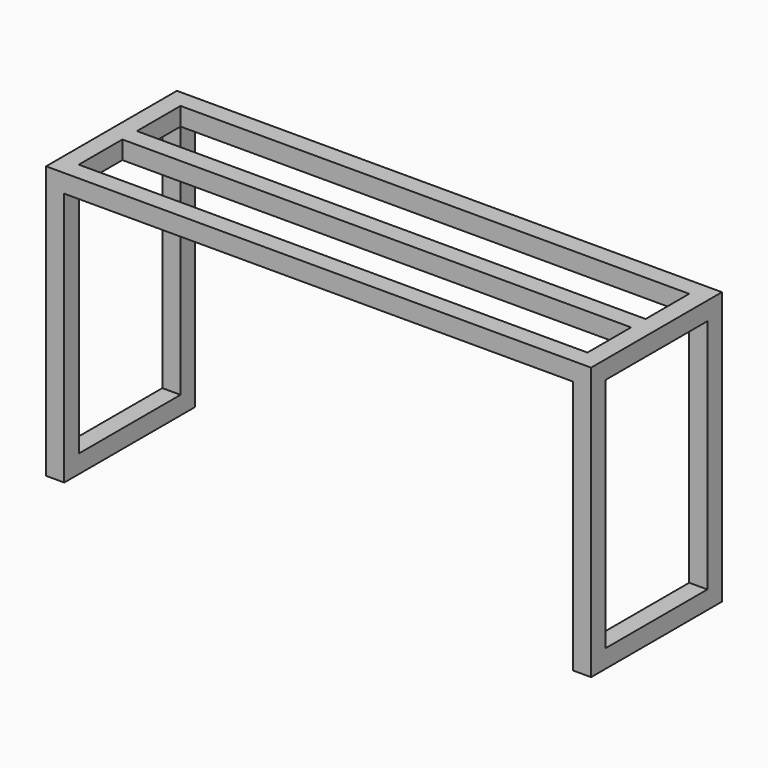
from build123d import *

# Parameters (mm, degrees)
PAD019_DEPTH = 40
SKETCH075_W  = 320
SKETCH075_H  = 40
PAD020_DEPTH = 40
SKETCH076_W  = 320
SKETCH076_H  = 40
PAD021_DEPTH = 40
PAD022_DEPTH = 40
SKETCH078_W  = 1120
SKETCH078_H  = 40
PAD023_DEPTH = 40


with BuildPart() as part:
    # Sketch074 (on Face1 of Binder024) → Pad019 (new body)
    with BuildSketch(Plane.XZ.offset(2.1)):
        Polygon((-300, -343.2), (900, -343.2), (900, -943.2), (860, -943.2), (860, -383.2), (-260, -383.2), (-260, -943.2), (-300, -943.2), align=None)
    extrude(amount=-PAD019_DEPTH)

    # Sketch075 (on Face2 of Pad019) → Pad020 (join)
    with BuildSketch(Plane.YZ.offset(900)):
        with Locations((197.9, -363.2)):
            Rectangle(SKETCH075_W, SKETCH075_H)
        with Locations((197.9, -923.2)):
            Rectangle(SKETCH075_W, SKETCH075_H)
    extrude(amount=-PAD020_DEPTH)

    # Sketch076 (on Face1 of Pad020) → Pad021 (join)
    with BuildSketch(Plane(origin=(-300, 0, 0), x_dir=(0, -1, 0), z_dir=(-1, 0, 0))):
        with Locations((-197.9, -363.2)):
            Rectangle(SKETCH076_W, SKETCH076_H)
        with Locations((-197.9, -923.2)):
            Rectangle(SKETCH076_W, SKETCH076_H)
    extrude(amount=-PAD021_DEPTH)

    # Sketch077 (on Face9 of Pad021) → Pad022 (join)
    with BuildSketch(Plane(origin=(0, 357.9, 0), x_dir=(-1, 0, 0), z_dir=(0, 1, 0))):
        Polygon((-900, -943.2), (-900, -343.2), (300, -343.2), (300, -943.2), (260, -943.2), (260, -383.2), (-860, -383.2), (-860, -943.2), align=None)
    extrude(amount=-PAD022_DEPTH)

    # Sketch078 (on Face2 of Pad022) → Pad023 (join)
    with BuildSketch(Plane(origin=(0, 0, -383.2), x_dir=(1, 0, 0), z_dir=(0, 0, -1))):
        with Locations((300, -177.9)):
            Rectangle(SKETCH078_W, SKETCH078_H)
    extrude(amount=-PAD023_DEPTH)


solid = part.part
